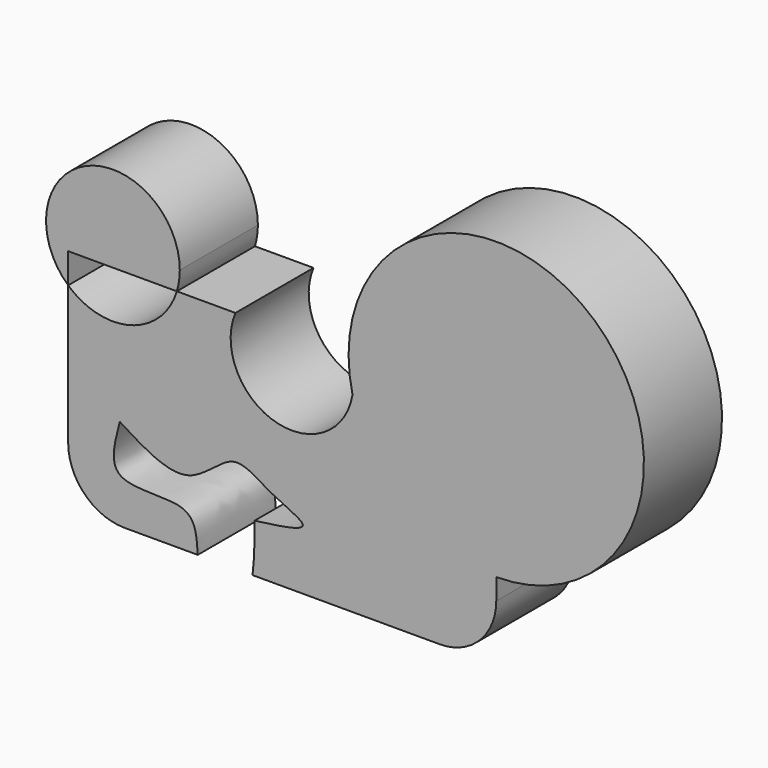
from build123d import *

# Parameters (mm, degrees)
F1_DEPTH  = 12.7
F2_DEPTH  = 12.7
F1_FACE_W = 19.2178485011
F1_FACE_H = 12.7
F4_R      = 7.3585229381


with BuildPart() as f1:
    # F0 (on Front) → F1 (new body)
    with BuildSketch(Plane.XZ):
        with BuildLine():
            Line((21.76652076, 0), (14.1461283629, 0))
            ThreePointArc((14.1461283629, 0), (8.1471688821, -5.8381114015), (0, -3.9159514716))
            Line((0, -3.9159514716), (0, -29.3096937239))
            Line((0, -29.3096937239), (16.8631964923, -29.3096937239))
            add(Edge.make_bspline(
                [(6.7195226438, -17.3593014479), (6.0482608246, -19.8654321823), (4.6122151952, -25.226854484), (15.1761402918, -23.4549753557), (16.6600562787, -26.2592916888), (16.8186052548, -28.6004949065), (16.8631964923, -29.3096937239)],
                knots=[0, 0, 0, 0, 0.1314169135, 0.2811431826, 0.3817228814, 0.4231323385, 0.4231323385, 0.4231323385, 0.4231323385], degree=3))
            add(Edge.make_bspline(
                [(6.7195226438, -17.3593014479), (9.8450413842, -19.3230399979), (15.6205872382, -22.9517694931), (21.3430002266, -15.355293975), (25.846211657, -19.2329189543), (33.2053726167, -21.8108203864), (27.3871203601, -22.5761607042), (24.2554172873, -22.9881089181)],
                knots=[0, 0, 0, 0, 0.2417916305, 0.4467990005, 0.6286614728, 0.8001251999, 1, 1, 1, 1], degree=3))
            add(Edge.make_bspline(
                [(23.9913668796, -29.3096937239), (24.2124863664, -27.570233309), (24.268194033, -24.5781198499), (24.2591819925, -23.4566102565), (24.2554172873, -22.9881089181)],
                knots=[0.8318451759, 0.8318451759, 0.8318451759, 0.8318451759, 0.9297547158, 1, 1, 1, 1], degree=3))
            Line((23.9913668796, -29.3096937239), (55.7066202164, -29.3096937239))
            Line((55.7066202164, -29.3096937239), (55.7066202164, 0))
            Line((55.7066202164, 0), (36.4887717152, 0))
            ThreePointArc((36.4887717152, 0), (36.9553014972, -1.5162544523), (37.11288462, -3.0948123895))
            ThreePointArc((37.11288462, -3.0948123895), (27.5490883005, -10.922467649), (21.76652076, 0))
        make_face()
    extrude(amount=F1_DEPTH)

    # F1_face (on face) → F3 (revolve)
    with BuildSketch(Plane(origin=(46.0976959658, -6.35, 0), x_dir=(1, 0, 0), z_dir=(0, 0, 1))):
        Rectangle(F1_FACE_W, F1_FACE_H)
    revolve(axis=Axis((55.7066202164, -6.35, 0), (0, 1, 0)))

    # F4
    f4_edges = [f1.edges().sort_by_distance(p)[0] for p in [
        (55.70662, -6.35, -29.309694),
        (0, -6.35, -29.309694),
    ]]
    fillet(f4_edges, radius=F4_R)


with BuildPart() as f2:
    # F0 (on Front) → F2 (new body)
    with BuildSketch(Plane.XZ):
        with BuildLine():
            Line((0, -3.9159514716), (0, 0))
            Line((0, 0), (14.1461283629, 0))
            ThreePointArc((14.1461283629, 0), (14.4317915571, 1.2601305638), (14.5277175631, 2.5486687664))
            ThreePointArc((14.5277175631, 2.5486687664), (2.2876444422, 10.4992330925), (0, -3.9159514716))
        make_face()
    extrude(amount=F2_DEPTH)


solid = Compound([f1.part, f2.part])
